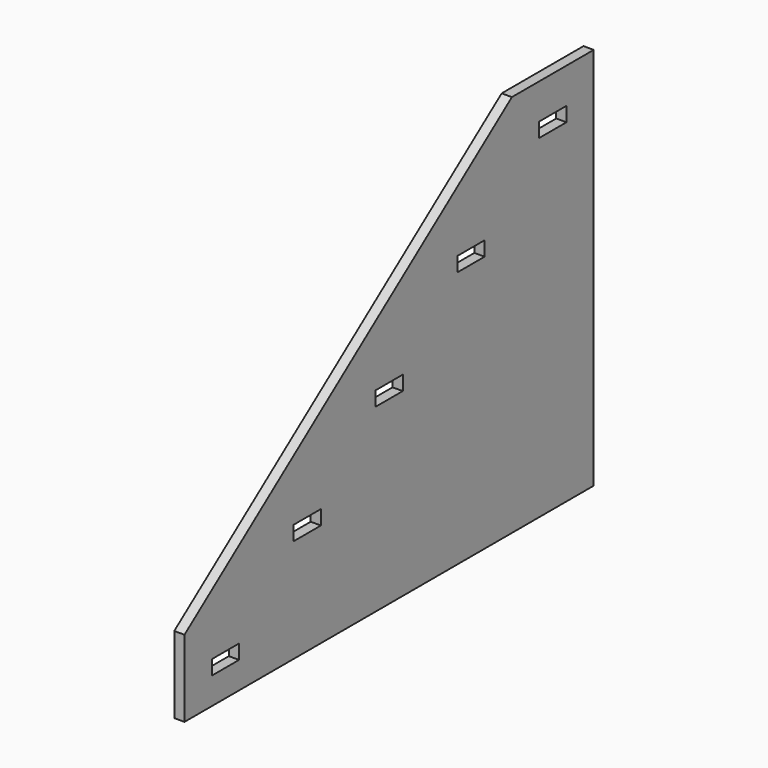
from build123d import *

# Parameters (mm, degrees)
F0_W     = 20
F0_H     = 8.5
F1_DEPTH = 6


with BuildPart() as f1:
    # F0 (on Right) → F1 (new body)
    with BuildSketch(Plane.YZ):
        Polygon((0, 25), (0, 0), (0, -20), (300, -20), (300, 0), (300, 180), (300, 205), (240, 205), align=None)
        with Locations((30, 0)):
            Rectangle(F0_W, F0_H, mode=Mode.SUBTRACT)
        with Locations((90, 45)):
            Rectangle(F0_W, F0_H, mode=Mode.SUBTRACT)
        with Locations((150, 90)):
            Rectangle(F0_W, F0_H, mode=Mode.SUBTRACT)
        with Locations((210, 135)):
            Rectangle(F0_W, F0_H, mode=Mode.SUBTRACT)
        with Locations((270, 180)):
            Rectangle(F0_W, F0_H, mode=Mode.SUBTRACT)
    extrude(amount=F1_DEPTH)


solid = f1.part
